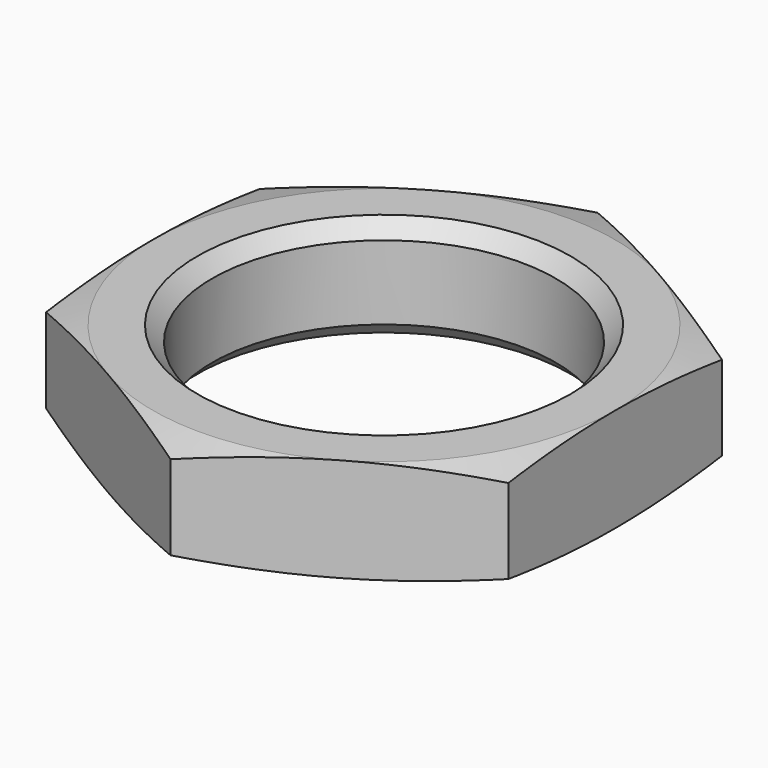
from build123d import *

# Parameters (mm, degrees)
SKETCH013_R     = 8.20375
POCKET004_DEPTH = 5
CHAMFER001_SIZE = 0.25


with BuildPart() as part:
    # Sketch012 → Revolution001 (revolve)
    with BuildSketch(Plane.XZ):
        Polygon((2.9, 0.875), (2.9, -0.875), (3.9, -0.875), (7.165544, 0), (3.9, 0.875), align=None)
    revolve(axis=Axis((0, 0, 0), (0, 0, 1)))

    # Sketch013 (on Face5 of Revolution001) → Pocket004 (cut)
    with BuildSketch(Plane(origin=(0, 0, 0.875), x_dir=(-1, 0, 0), z_dir=(0, 0, 1))):
        Circle(SKETCH013_R)
        Polygon((0, 4.503332), (-3.9, 2.251666), (-3.9, -2.251666), (0, -4.503332), (3.9, -2.251666), (3.9, 2.251666), align=None, mode=Mode.SUBTRACT)
    extrude(amount=-POCKET004_DEPTH, mode=Mode.SUBTRACT)

    # Chamfer001
    chamfer001_edges = [part.edges().sort_by_distance(p)[0] for p in [
        (-2.9, 0, -0.875),
        (-2.9, 0, 0.875),
    ]]
    chamfer(chamfer001_edges, length=CHAMFER001_SIZE)


with BuildPart() as part_1:
    # Body003 placement: moved
    add(part.part.moved(Location((0, 0, 0.875))))


with BuildPart() as part_2:
    # Body004 placement: moved
    add(part_1.part.moved(Location((0, 0, 5.35))))


solid = part_2.part
